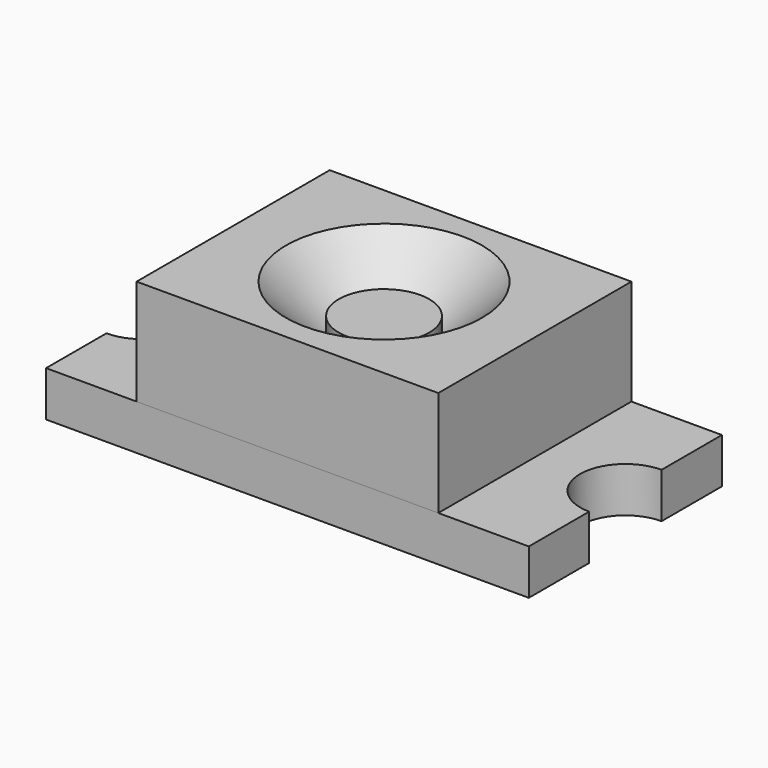
from build123d import *

# Parameters (mm, degrees)
SKETCH_W        = 1.6
SKETCH_H        = 0.8
PAD_DEPTH       = 0.15
SKETCH001_R     = 0.15
POCKET_DEPTH    = 5
SKETCH002_W     = 1
SKETCH002_H     = 0.8
PAD001_DEPTH    = 0.35
SKETCH003_R     = 0.125
POCKET001_DEPTH = 0.21
CHAMFER_SIZE    = 0.2
SKETCH004_R     = 0.15
PAD002_DEPTH    = 0.1


with BuildPart() as body:
    # Sketch → Pad (new body)
    with BuildSketch(Plane.XY):
        Rectangle(SKETCH_W, SKETCH_H)
    extrude(amount=PAD_DEPTH)

    # Sketch001 (on Face6 of Pad) → Pocket (cut)
    with BuildSketch(Plane.XY.offset(0.15)):
        with Locations((-0.8, 0)):
            Circle(SKETCH001_R)
        with Locations((0.8, 0)):
            Circle(SKETCH001_R)
    extrude(amount=-POCKET_DEPTH, mode=Mode.SUBTRACT)


with BuildPart() as body001:
    # Sketch002 → Pad001 (new body)
    with BuildSketch(Plane.XY):
        Rectangle(SKETCH002_W, SKETCH002_H)
    extrude(amount=PAD001_DEPTH)

    # Sketch003 (on Face6 of Pad001) → Pocket001 (cut)
    with BuildSketch(Plane.XY.offset(0.35)):
        Circle(SKETCH003_R)
    extrude(amount=-POCKET001_DEPTH, mode=Mode.SUBTRACT)

    # Chamfer
    chamfer_edges = [body001.edges().sort_by_distance(p)[0] for p in [
        (-0.125, 0, 0.35),
    ]]
    chamfer(chamfer_edges, length=CHAMFER_SIZE)


with BuildPart() as body001_1:
    # Body001 placement: moved
    add(body001.part.moved(Location((0, 0, 0.15))))


with BuildPart() as body002:
    # Sketch004 → Pad002 (new body)
    with BuildSketch(Plane.XY):
        Circle(SKETCH004_R)
    extrude(amount=PAD002_DEPTH)


with BuildPart() as body002_1:
    # Body002 placement: moved
    add(body002.part.moved(Location((0, 0, 0.3))))


solid = Compound([body.part, body001_1.part, body002_1.part])
